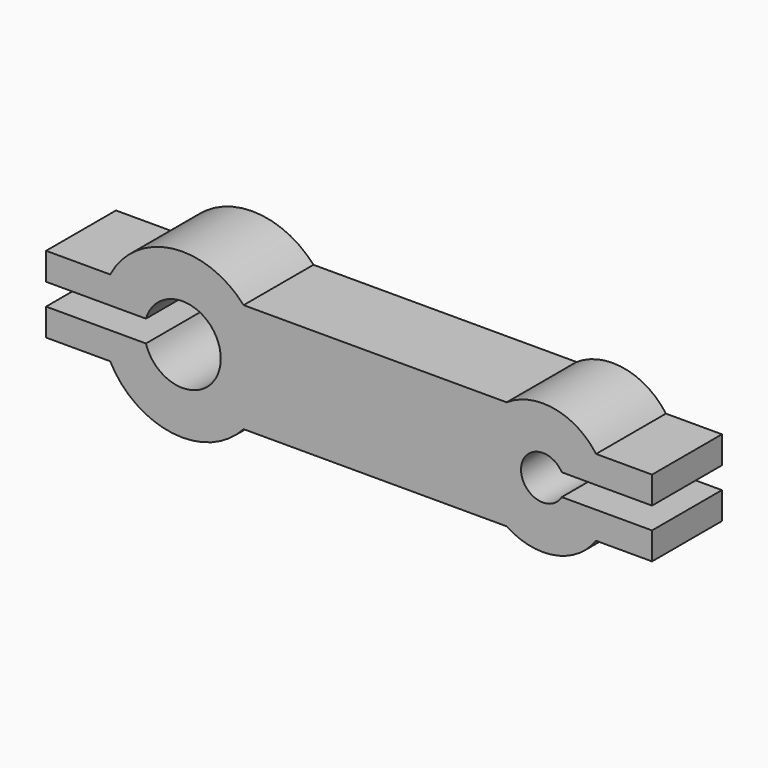
from build123d import *

# Parameters (mm, degrees)
F1_DEPTH = 16


with BuildPart() as f1:
    # F0 (on Front) → F1 (new body)
    with BuildSketch(Plane.XZ):
        with BuildLine():
            ThreePointArc((-11.633543, 2), (2.074661, 0), (-11.633543, -2))
            Line((-11.633543, -2), (-19.791408, -2))
            ThreePointArc((-19.791408, -2), (-19.212058, -4.57052), (-18.191838, -7))
            ThreePointArc((-18.191838, -7), (-6.752363, -14.888317), (6.255001, -10))
            ThreePointArc((6.255001, -10), (10.074661, 0), (6.255001, 10))
            ThreePointArc((6.255001, 10), (-6.752363, 14.888317), (-18.191838, 7))
            ThreePointArc((-18.191838, 7), (-19.212058, 4.57052), (-19.791408, 2))
            Line((-19.791408, 2), (-11.633543, 2))
        make_face()
        with BuildLine():
            ThreePointArc((-18.191838, -7), (-19.212058, -4.57052), (-19.791408, -2))
            Line((-19.791408, -2), (-29.925339, -2))
            Line((-29.925339, -2), (-29.925339, -7))
            Line((-29.925339, -7), (-18.191838, -7))
        make_face()
        with BuildLine():
            Line((-29.925339, 2), (-19.791408, 2))
            ThreePointArc((-19.791408, 2), (-19.212058, 4.57052), (-18.191838, 7))
            Line((-18.191838, 7), (-29.925339, 7))
            Line((-29.925339, 7), (-29.925339, 2))
        make_face()
        with BuildLine():
            ThreePointArc((6.255001, 10), (10.074661, 0), (6.255001, -10))
            Line((6.255001, -10), (54.441411, -10))
            ThreePointArc((54.441411, -10), (49.074661, 0), (54.441411, 10))
            Line((54.441411, 10), (6.255001, 10))
        make_face()
        with BuildLine():
            ThreePointArc((54.441411, 10), (49.074661, 0), (54.441411, -10))
            ThreePointArc((54.441411, -10), (63.236498, -11.803663), (70.821455, -7))
            ThreePointArc((70.821455, -7), (72.149986, -4.619219), (72.906821, -2))
            Line((72.906821, -2), (64.538763, -2))
            ThreePointArc((64.538763, -2), (57.074661, 0), (64.538763, 2))
            Line((64.538763, 2), (72.906821, 2))
            ThreePointArc((72.906821, 2), (72.149986, 4.619219), (70.821455, 7))
            ThreePointArc((70.821455, 7), (63.236498, 11.803663), (54.441411, 10))
        make_face()
        with BuildLine():
            ThreePointArc((72.906821, -2), (72.149986, -4.619219), (70.821455, -7))
            Line((70.821455, -7), (81.074661, -7))
            Line((81.074661, -7), (81.074661, -2))
            Line((81.074661, -2), (72.906821, -2))
        make_face()
        with BuildLine():
            Line((81.074661, 7), (70.821455, 7))
            ThreePointArc((70.821455, 7), (72.149986, 4.619219), (72.906821, 2))
            Line((72.906821, 2), (81.074661, 2))
            Line((81.074661, 2), (81.074661, 7))
        make_face()
    extrude(amount=F1_DEPTH)


solid = f1.part
